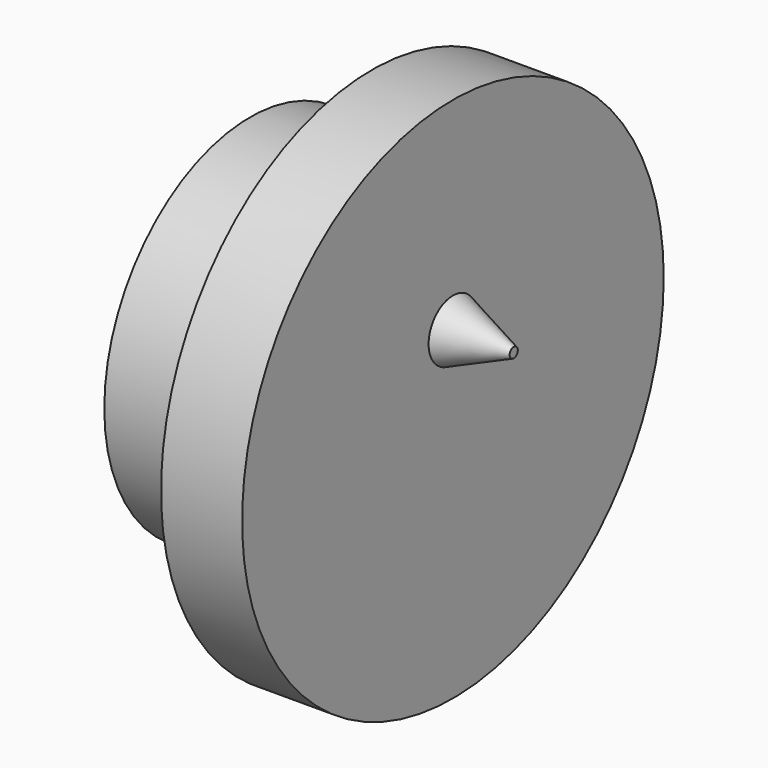
from build123d import *


with BuildPart() as f1:
    # F0 (on Top) → F1 (revolve)
    with BuildSketch(Plane.XY):
        Polygon((0, 9), (0, 0), (10, 0), (10, 13), (6, 13), (6, 9), align=None)
    revolve(axis=Axis((5, 0, 0), (1, 0, 0)))

    # F2 (on Front) → F3 (revolve)
    with BuildSketch(Plane.XZ):
        Polygon((10, 4.5), (10, 3), (13, 3), (13, 3.25), align=None)
    revolve(axis=Axis((11.5, 0, 3), (1, 0, 0)))


solid = f1.part
